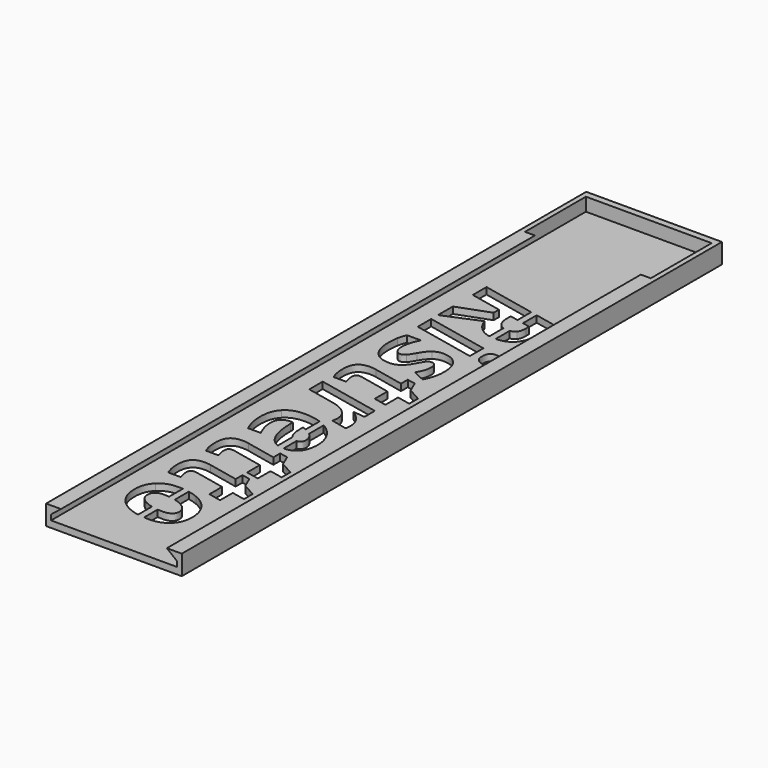
from build123d import *

# Parameters (mm, degrees)
F1_DEPTH = 202
F2_W     = 41
F2_H     = 6
F3_DEPTH = 2
F5_W     = 38
F5_H     = 23
F6_DEPTH = 4
F9_DEPTH = 2


with BuildPart() as f1:
    # F0 (on Front) → F1 (new body)
    with BuildSketch(Plane.XZ):
        Polygon((-20.5, 6), (-20.5, 0), (20.5, 0), (20.5, 6), (16, 6), (19, 3.6), (19, 2), (-19, 2), (-19, 3.6), (-16, 6), align=None)
    extrude(amount=F1_DEPTH)

    # F2 (on Front) → F3 (join)
    with BuildSketch(Plane.XZ):
        with Locations((0, 3)):
            Rectangle(F2_W, F2_H)
    extrude(amount=-F3_DEPTH)

    # F5 (on offset) → F6 (cut)
    with BuildSketch(Plane.XY.offset(6)):
        with Locations((0, -11.5)):
            Rectangle(F5_W, F5_H)
    extrude(amount=-F6_DEPTH, mode=Mode.SUBTRACT)

    # F8 (on offset) → F9 (cut, through all)
    with BuildSketch(Plane.XY.offset(2)):
        with BuildLine():
            Line((2.9829242267, -53.3153165883), (2.9829242267, -48.1384673079))
            Line((2.9829242267, -48.1384673079), (-13.2619244978, -44.7074585491))
            Line((-13.2619244978, -44.7074585491), (-13.2619244978, -49.8778144519))
            Line((-13.2619244978, -49.8778144519), (-3.7512908172, -51.8960436185))
            Line((-3.7512908172, -51.8960436185), (-3.7512908172, -53.9142727852))
            Line((-3.7512908172, -53.9142727852), (-13.2619244978, -57.4190470907))
            Line((-13.2619244978, -57.4190470907), (-13.2619244978, -63.0505575074))
            Line((-13.2619244978, -63.0505575074), (-2.7313255394, -58.6234741741))
            add(Edge.make_bspline(
                [(0.1251197731, -62.6789212227), (-1.7981658172, -61.2710436185), (-2.7313255394, -58.6234741741)],
                knots=[0, 0, 0, 1, 1, 1], degree=2))
            add(Edge.make_bspline(
                [(2.9829242267, -63.9219444067), (1.3902754579, -63.6050365971), (0.1251197731, -62.6789212227)],
                knots=[0.3421904208, 0.3421904208, 0.3421904208, 1, 1, 1], degree=2))
            Line((2.9829242267, -63.9219444067), (2.9829242267, -58.6045602377))
            add(Edge.make_bspline(
                [(1.4895945994, -57.5736694866), (2.0589763121, -58.3045892694), (2.9829242267, -58.6045602377)],
                knots=[0, 0, 0, 0.5895979622, 0.5895979622, 0.5895979622], degree=2))
            add(Edge.make_bspline(
                [(0.5238827939, -54.1150106324), (0.5238827939, -56.3339776463), (1.4895945994, -57.5736694866)],
                knots=[0, 0, 0, 1, 1, 1], degree=2))
            Line((0.5238827939, -54.1150106324), (0.5238827939, -52.7912259102))
            Line((0.5238827939, -52.7912259102), (2.9829242267, -53.3153165883))
        make_face()
        with BuildLine():
            Line((11.5264869606, -49.9429186185), (4.9829242267, -48.5608792142))
            Line((4.9829242267, -48.5608792142), (4.9829242267, -53.7415726661))
            Line((4.9829242267, -53.7415726661), (7.2187612661, -54.2180922296))
            Line((7.2187612661, -54.2180922296), (7.2187612661, -55.471347438))
            add(Edge.make_bspline(
                [(6.5243168217, -58.0076972644), (7.2187612661, -57.2020332019), (7.2187612661, -55.471347438)],
                knots=[0, 0, 0, 1, 1, 1], degree=2))
            add(Edge.make_bspline(
                [(4.9829242267, -58.7792802492), (5.9727016324, -58.6476570738), (6.5243168217, -58.0076972644)],
                knots=[0.2056741275, 0.2056741275, 0.2056741275, 1, 1, 1], degree=2))
            Line((4.9829242267, -58.7792802492), (4.9829242267, -64.0838106189))
            add(Edge.make_bspline(
                [(9.7958011967, -62.0685696602), (8.1317099375, -64.0091400314), (4.9829242267, -64.0838106189)],
                knots=[0, 0, 0, 0.9615213194, 0.9615213194, 0.9615213194], degree=2))
            add(Edge.make_bspline(
                [(11.5264869606, -56.0301582019), (11.5264869606, -60.0503404935), (9.7958011967, -62.0685696602)],
                knots=[0, 0, 0, 1, 1, 1], degree=2))
            Line((11.5264869606, -56.0301582019), (11.5264869606, -49.9429186185))
        make_face()
        Polygon((-13.2619244978, -65.578769313), (-13.2619244978, -70.6785957019), (5.6942386967, -74.6987779935), (5.6942386967, -69.5935262574), align=None)
        with BuildLine():
            add(Edge.make_bspline(
                [(10.1375980717, -70.4073283407), (11.6078671689, -70.4073283407), (12.3647031064, -71.2129924032)],
                knots=[0, 0, 0, 1, 1, 1], degree=2))
            add(Edge.make_bspline(
                [(8.0488393911, -72.9680922296), (8.0488393911, -70.4073283407), (10.1375980717, -70.4073283407)],
                knots=[0, 0, 0, 1, 1, 1], degree=2))
            add(Edge.make_bspline(
                [(8.8897682106, -75.2765774727), (8.0488393911, -74.5305922296), (8.0488393911, -72.9680922296)],
                knots=[0, 0, 0, 1, 1, 1], degree=2))
            add(Edge.make_bspline(
                [(11.0870338356, -76.0225627157), (9.73069703, -76.0225627157), (8.8897682106, -75.2765774727)],
                knots=[0, 0, 0, 1, 1, 1], degree=2))
            add(Edge.make_bspline(
                [(12.5952803633, -75.3769463963), (12.0690216828, -76.0225627157), (11.0870338356, -76.0225627157)],
                knots=[0, 0, 0, 1, 1, 1], degree=2))
            add(Edge.make_bspline(
                [(13.1215390439, -73.4943509102), (13.1215390439, -74.7313300769), (12.5952803633, -75.3769463963)],
                knots=[0, 0, 0, 1, 1, 1], degree=2))
            add(Edge.make_bspline(
                [(12.3647031064, -71.2129924032), (13.1215390439, -72.0186564657), (13.1215390439, -73.4943509102)],
                knots=[0, 0, 0, 1, 1, 1], degree=2))
        make_face()
        with BuildLine():
            add(Edge.make_bspline(
                [(-7.0064991506, -89.3146634102), (-10.19117797, -89.3146634102), (-11.8974496714, -87.2042033407)],
                knots=[0, 0, 0, 1, 1, 1], degree=2))
            add(Edge.make_bspline(
                [(-4.1229271019, -88.381503688), (-5.3788949839, -89.3146634102), (-7.0064991506, -89.3146634102)],
                knots=[0, 0, 0, 1, 1, 1], degree=2))
            add(Edge.make_bspline(
                [(-1.7981658172, -85.3650106324), (-2.86695922, -87.4483439657), (-4.1229271019, -88.381503688)],
                knots=[0, 0, 0, 1, 1, 1], degree=2))
            add(Edge.make_bspline(
                [(-0.5367725881, -83.3305054241), (-1.0386172061, -83.8730401463), (-1.7981658172, -85.3650106324)],
                knots=[0, 0, 0, 1, 1, 1], degree=2))
            add(Edge.make_bspline(
                [(0.6215390439, -82.7879707019), (-0.03492797, -82.7879707019), (-0.5367725881, -83.3305054241)],
                knots=[0, 0, 0, 1, 1, 1], degree=2))
            add(Edge.make_bspline(
                [(1.7852760231, -83.3793335491), (1.3539609189, -82.7879707019), (0.6215390439, -82.7879707019)],
                knots=[0, 0, 0, 1, 1, 1], degree=2))
            add(Edge.make_bspline(
                [(2.2165911272, -84.9364082019), (2.2165911272, -83.9706963963), (1.7852760231, -83.3793335491)],
                knots=[0, 0, 0, 1, 1, 1], degree=2))
            add(Edge.make_bspline(
                [(0.795150155, -89.3146634102), (2.2165911272, -86.9383613269), (2.2165911272, -84.9364082019)],
                knots=[0, 0, 0, 1, 1, 1], degree=2))
            Line((0.795150155, -89.3146634102), (4.4409834883, -90.9910957019))
            add(Edge.make_bspline(
                [(6.0468862661, -84.8387519519), (6.0468862661, -88.2458700074), (4.4409834883, -90.9910957019)],
                knots=[0, 0, 0, 1, 1, 1], degree=2))
            add(Edge.make_bspline(
                [(4.4626848772, -79.4866469171), (6.0468862661, -81.3611043824), (6.0468862661, -84.8387519519)],
                knots=[0, 0, 0, 1, 1, 1], degree=2))
            add(Edge.make_bspline(
                [(-0.0023758867, -77.6121894519), (2.8784834883, -77.6121894519), (4.4626848772, -79.4866469171)],
                knots=[0, 0, 0, 1, 1, 1], degree=2))
            add(Edge.make_bspline(
                [(-2.7096241506, -78.4259915352), (-1.5648758867, -77.6121894519), (-0.0023758867, -77.6121894519)],
                knots=[0, 0, 0, 1, 1, 1], degree=2))
            add(Edge.make_bspline(
                [(-5.0045460256, -81.2960002157), (-3.8543724144, -79.2397936185), (-2.7096241506, -78.4259915352)],
                knots=[0, 0, 0, 1, 1, 1], degree=2))
            add(Edge.make_bspline(
                [(-6.4639644283, -83.5149672296), (-5.8888776228, -82.8856269519), (-5.0045460256, -81.2960002157)],
                knots=[0, 0, 0, 1, 1, 1], degree=2))
            add(Edge.make_bspline(
                [(-7.7660477617, -84.1443075074), (-7.0390512339, -84.1443075074), (-6.4639644283, -83.5149672296)],
                knots=[0, 0, 0, 1, 1, 1], degree=2))
            add(Edge.make_bspline(
                [(-9.2688689422, -83.2789646255), (-8.7154835256, -84.1443075074), (-7.7660477617, -84.1443075074)],
                knots=[0, 0, 0, 1, 1, 1], degree=2))
            add(Edge.make_bspline(
                [(-9.8222543589, -81.057284938), (-9.8222543589, -82.4136217435), (-9.2688689422, -83.2789646255)],
                knots=[0, 0, 0, 1, 1, 1], degree=2))
            add(Edge.make_bspline(
                [(-8.2923064422, -75.6482137574), (-9.8222543589, -78.3120592435), (-9.8222543589, -81.057284938)],
                knots=[0, 0, 0, 1, 1, 1], degree=2))
            Line((-8.2923064422, -75.6482137574), (-12.4969505394, -75.6482137574))
            add(Edge.make_bspline(
                [(-13.3487300533, -78.1655748685), (-13.0937387339, -76.8200887574), (-12.4969505394, -75.6482137574)],
                knots=[0, 0, 0, 1, 1, 1], degree=2))
            add(Edge.make_bspline(
                [(-13.6037213728, -81.3285522991), (-13.6037213728, -79.5110609796), (-13.3487300533, -78.1655748685)],
                knots=[0, 0, 0, 1, 1, 1], degree=2))
            add(Edge.make_bspline(
                [(-11.8974496714, -87.2042033407), (-13.6037213728, -85.0937432713), (-13.6037213728, -81.3285522991)],
                knots=[0, 0, 0, 1, 1, 1], degree=2))
        make_face()
        with BuildLine():
            add(Edge.make_bspline(
                [(-9.4804574839, -100.3986477852), (-9.4804574839, -101.4999932713), (-8.8890946367, -103.1492988269)],
                knots=[0, 0, 0, 1, 1, 1], degree=2))
            add(Edge.make_bspline(
                [(-8.2272022756, -98.9066772991), (-9.4804574839, -98.9066772991), (-9.4804574839, -100.3986477852)],
                knots=[0, 0, 0, 1, 1, 1], degree=2))
            add(Edge.make_bspline(
                [(-7.3265946367, -99.0097588963), (-7.8365772756, -98.9066772991), (-8.2272022756, -98.9066772991)],
                knots=[0, 0, 0, 1, 1, 1], degree=2))
            Line((-7.3265946367, -99.0097588963), (1.8096900856, -100.9574585491))
            Line((1.8096900856, -100.9574585491), (1.8096900856, -105.7426147991))
            Line((1.8096900856, -105.7426147991), (5.6942386967, -106.5889689657))
            Line((5.6942386967, -106.5889689657), (5.6942386967, -101.7929620213))
            Line((5.6942386967, -101.7929620213), (9.73069703, -102.6230401463))
            Line((9.73069703, -102.6230401463), (9.73069703, -99.3298543824))
            Line((9.73069703, -99.3298543824), (5.72679078, -97.0946113269))
            Line((5.72679078, -97.0946113269), (4.3053498078, -93.7688734796))
            Line((4.3053498078, -93.7688734796), (1.8096900856, -93.2805922296))
            Line((1.8096900856, -93.2805922296), (1.8096900856, -95.8576321602))
            Line((1.8096900856, -95.8576321602), (-7.3265946367, -93.9045071602))
            add(Edge.make_bspline(
                [(-9.2254661644, -93.703769313), (-8.3791119978, -93.703769313), (-7.3265946367, -93.9045071602)],
                knots=[0, 0, 0, 1, 1, 1], degree=2))
            add(Edge.make_bspline(
                [(-12.53492797, -94.9000583755), (-11.4661345672, -93.703769313), (-9.2254661644, -93.703769313)],
                knots=[0, 0, 0, 1, 1, 1], degree=2))
            add(Edge.make_bspline(
                [(-13.6037213728, -98.635409938), (-13.6037213728, -96.096347438), (-12.53492797, -94.9000583755)],
                knots=[0, 0, 0, 1, 1, 1], degree=2))
            add(Edge.make_bspline(
                [(-12.7031137339, -103.1492988269), (-13.6037213728, -101.2667033407), (-13.6037213728, -98.635409938)],
                knots=[0, 0, 0, 1, 1, 1], degree=2))
            Line((-12.7031137339, -103.1492988269), (-8.8890946367, -103.1492988269))
        make_face()
        with BuildLine():
            add(Edge.make_bspline(
                [(6.0468862661, -120.2011651463), (6.0468862661, -121.2048543824), (5.8624244606, -121.828769313)],
                knots=[0, 0, 0, 1, 1, 1], degree=2))
            add(Edge.make_bspline(
                [(2.1840390439, -114.2170071602), (6.0468862661, -116.7126668824), (6.0468862661, -120.2011651463)],
                knots=[0, 0, 0, 1, 1, 1], degree=2))
            Line((2.1840390439, -114.2170071602), (2.1840390439, -114.113925563))
            Line((2.1840390439, -114.113925563), (5.6942386967, -114.4719984796))
            Line((5.6942386967, -114.4719984796), (5.6942386967, -110.5711738269))
            Line((5.6942386967, -110.5711738269), (-13.2619244978, -106.5564168824))
            Line((-13.2619244978, -106.5564168824), (-13.2619244978, -111.6562432713))
            Line((-13.2619244978, -111.6562432713), (-4.7821067894, -113.4574585491))
            add(Edge.make_bspline(
                [(-0.3333220672, -115.5652059449), (-1.8849713728, -114.0813734796), (-4.7821067894, -113.4574585491)],
                knots=[0, 0, 0, 1, 1, 1], degree=2))
            add(Edge.make_bspline(
                [(1.2183272383, -119.0184394519), (1.2183272383, -117.0490384102), (-0.3333220672, -115.5652059449)],
                knots=[0, 0, 0, 1, 1, 1], degree=2))
            add(Edge.make_bspline(
                [(0.9470598772, -120.7111477852), (1.2183272383, -119.9461738269), (1.2183272383, -119.0184394519)],
                knots=[0, 0, 0, 1, 1, 1], degree=2))
            Line((0.9470598772, -120.7111477852), (5.8624244606, -121.828769313))
        make_face()
        with BuildLine():
            Line((-1.1244220659, -128.1487690576), (-1.1244220659, -122.9391321864))
            add(Edge.make_bspline(
                [(-6.2740772756, -122.0674845907), (-3.5083656042, -122.0674845907), (-1.1244220659, -122.9391321864)],
                knots=[0, 0, 0, 0.7891268967, 0.7891268967, 0.7891268967], degree=2))
            add(Edge.make_bspline(
                [(-11.6858611297, -124.0341729588), (-9.7680008867, -122.0674845907), (-6.2740772756, -122.0674845907)],
                knots=[0, 0, 0, 1, 1, 1], degree=2))
            add(Edge.make_bspline(
                [(-13.6037213728, -129.5653144519), (-13.6037213728, -126.0008613269), (-11.6858611297, -124.0341729588)],
                knots=[0, 0, 0, 1, 1, 1], degree=2))
            add(Edge.make_bspline(
                [(-12.14430297, -136.1733873685), (-13.6037213728, -133.2599759102), (-13.6037213728, -129.5653144519)],
                knots=[0, 0, 0, 1, 1, 1], degree=2))
            Line((-12.14430297, -136.1733873685), (-8.2923064422, -136.1733873685))
            add(Edge.make_bspline(
                [(-9.4289166853, -133.2599759102), (-9.1061085256, -134.4644029935), (-8.2923064422, -136.1733873685)],
                knots=[0, 0, 0, 1, 1, 1], degree=2))
            add(Edge.make_bspline(
                [(-9.751724845, -130.5798543824), (-9.751724845, -132.0555488269), (-9.4289166853, -133.2599759102)],
                knots=[0, 0, 0, 1, 1, 1], degree=2))
            add(Edge.make_bspline(
                [(-8.8619679006, -128.078769313), (-9.751724845, -128.9522502157), (-9.751724845, -130.5798543824)],
                knots=[0, 0, 0, 1, 1, 1], degree=2))
            add(Edge.make_bspline(
                [(-6.431412345, -127.2052884102), (-7.9722109561, -127.2052884102), (-8.8619679006, -128.078769313)],
                knots=[0, 0, 0, 1, 1, 1], degree=2))
            Line((-6.431412345, -127.2052884102), (-6.08961547, -127.2052884102))
            Line((-6.08961547, -127.2052884102), (-5.7315425533, -127.2378404935))
            Line((-5.7315425533, -127.2378404935), (-5.7315425533, -128.1058960491))
            add(Edge.make_bspline(
                [(-4.0117074839, -136.1923760838), (-5.7315425533, -133.3630575074), (-5.7315425533, -128.1058960491)],
                knots=[0, 0, 0, 1, 1, 1], degree=2))
            add(Edge.make_bspline(
                [(-1.1244220659, -138.6896083761), (-2.8810840903, -138.0523763985), (-4.0117074839, -136.1923760838)],
                knots=[0.3425977795, 0.3425977795, 0.3425977795, 1, 1, 1], degree=2))
            Line((-1.1244220659, -138.6896083761), (-1.1244220659, -133.1768450344))
            add(Edge.make_bspline(
                [(-1.4699323103, -132.6577623685), (-1.3084350515, -132.9455792654), (-1.1244220659, -133.1768450344)],
                knots=[0, 0, 0, 0.1964830016, 0.1964830016, 0.1964830016], degree=2))
            add(Edge.make_bspline(
                [(-2.2918724144, -128.5616252157), (-2.2918724144, -131.1929186185), (-1.4699323103, -132.6577623685)],
                knots=[0, 0, 0, 1, 1, 1], degree=2))
            Line((-2.2918724144, -128.5616252157), (-2.2918724144, -127.8020766046))
            add(Edge.make_bspline(
                [(-1.1244220659, -128.1487690576), (-1.6788570057, -127.9301438906), (-2.2918724144, -127.8020766046)],
                knots=[0.685261838, 0.685261838, 0.685261838, 1, 1, 1], degree=2))
        make_face()
        with BuildLine():
            add(Edge.make_bspline(
                [(0.8755779341, -123.8617681464), (3.2181215381, -125.1884804824), (4.5305017175, -127.2568292088)],
                knots=[0.1345334001, 0.1345334001, 0.1345334001, 1, 1, 1], degree=2))
            Line((0.8755779341, -123.8617681464), (0.8755779341, -129.4007119953))
            add(Edge.make_bspline(
                [(1.0121640439, -129.5300496949), (0.9446045921, -129.4642467889), (0.8755779341, -129.4007119953)],
                knots=[0, 0, 0, 0.0498102326, 0.0498102326, 0.0498102326], degree=2))
            add(Edge.make_bspline(
                [(2.3685008494, -132.3430922296), (2.3685008494, -130.8511217435), (1.0121640439, -129.5300496949)],
                knots=[0, 0, 0, 1, 1, 1], degree=2))
            add(Edge.make_bspline(
                [(0.8755779341, -134.1201113501), (2.3685008494, -134.055976733), (2.3685008494, -132.3430922296)],
                knots=[0.0374424644, 0.0374424644, 0.0374424644, 1, 1, 1], degree=2))
            Line((0.8755779341, -134.1201113501), (0.8755779341, -139.0216945963))
            add(Edge.make_bspline(
                [(0.8765303633, -139.0216946602), (0.8760541323, -139.0216946602), (0.8755779341, -139.0216945963)],
                knots=[0, 0, 0, 0.0001503063, 0.0001503063, 0.0001503063], degree=2))
            add(Edge.make_bspline(
                [(4.6661353981, -137.3452623685), (3.28538453, -139.0216946602), (0.8765303633, -139.0216946602)],
                knots=[0, 0, 0, 1, 1, 1], degree=2))
            add(Edge.make_bspline(
                [(6.0468862661, -132.6631877157), (6.0468862661, -135.6688300769), (4.6661353981, -137.3452623685)],
                knots=[0, 0, 0, 1, 1, 1], degree=2))
            add(Edge.make_bspline(
                [(4.5305017175, -127.2568292088), (6.0468862661, -129.6466946602), (6.0468862661, -132.6631877157)],
                knots=[0, 0, 0, 1, 1, 1], degree=2))
        make_face()
        with BuildLine():
            add(Edge.make_bspline(
                [(-9.4804574839, -148.6028578546), (-9.4804574839, -149.7042033407), (-8.8890946367, -151.3535088963)],
                knots=[0, 0, 0, 1, 1, 1], degree=2))
            add(Edge.make_bspline(
                [(-8.2272022756, -147.1108873685), (-9.4804574839, -147.1108873685), (-9.4804574839, -148.6028578546)],
                knots=[0, 0, 0, 1, 1, 1], degree=2))
            add(Edge.make_bspline(
                [(-7.3265946367, -147.2139689657), (-7.8365772756, -147.1108873685), (-8.2272022756, -147.1108873685)],
                knots=[0, 0, 0, 1, 1, 1], degree=2))
            Line((-7.3265946367, -147.2139689657), (1.8096900856, -149.1616686185))
            Line((1.8096900856, -149.1616686185), (1.8096900856, -153.9468248685))
            Line((1.8096900856, -153.9468248685), (5.6942386967, -154.7931790352))
            Line((5.6942386967, -154.7931790352), (5.6942386967, -149.9971720907))
            Line((5.6942386967, -149.9971720907), (9.73069703, -150.8272502157))
            Line((9.73069703, -150.8272502157), (9.73069703, -147.5340644519))
            Line((9.73069703, -147.5340644519), (5.72679078, -145.2988213963))
            Line((5.72679078, -145.2988213963), (4.3053498078, -141.9730835491))
            Line((4.3053498078, -141.9730835491), (1.8096900856, -141.4848022991))
            Line((1.8096900856, -141.4848022991), (1.8096900856, -144.0618422296))
            Line((1.8096900856, -144.0618422296), (-7.3265946367, -142.1087172296))
            add(Edge.make_bspline(
                [(-9.2254661644, -141.9079793824), (-8.3791119978, -141.9079793824), (-7.3265946367, -142.1087172296)],
                knots=[0, 0, 0, 1, 1, 1], degree=2))
            add(Edge.make_bspline(
                [(-12.53492797, -143.1042684449), (-11.4661345672, -141.9079793824), (-9.2254661644, -141.9079793824)],
                knots=[0, 0, 0, 1, 1, 1], degree=2))
            add(Edge.make_bspline(
                [(-13.6037213728, -146.8396200074), (-13.6037213728, -144.3005575074), (-12.53492797, -143.1042684449)],
                knots=[0, 0, 0, 1, 1, 1], degree=2))
            add(Edge.make_bspline(
                [(-12.7031137339, -151.3535088963), (-13.6037213728, -149.4709134102), (-13.6037213728, -146.8396200074)],
                knots=[0, 0, 0, 1, 1, 1], degree=2))
            Line((-12.7031137339, -151.3535088963), (-8.8890946367, -151.3535088963))
        make_face()
        with BuildLine():
            add(Edge.make_bspline(
                [(-9.4804574839, -162.844394313), (-9.4804574839, -163.9457397991), (-8.8890946367, -165.5950453546)],
                knots=[0, 0, 0, 1, 1, 1], degree=2))
            add(Edge.make_bspline(
                [(-8.2272022756, -161.3524238269), (-9.4804574839, -161.3524238269), (-9.4804574839, -162.844394313)],
                knots=[0, 0, 0, 1, 1, 1], degree=2))
            add(Edge.make_bspline(
                [(-7.3265946367, -161.4555054241), (-7.8365772756, -161.3524238269), (-8.2272022756, -161.3524238269)],
                knots=[0, 0, 0, 1, 1, 1], degree=2))
            Line((-7.3265946367, -161.4555054241), (1.8096900856, -163.4032050769))
            Line((1.8096900856, -163.4032050769), (1.8096900856, -168.1883613269))
            Line((1.8096900856, -168.1883613269), (5.6942386967, -169.0347154935))
            Line((5.6942386967, -169.0347154935), (5.6942386967, -164.2387085491))
            Line((5.6942386967, -164.2387085491), (9.73069703, -165.0687866741))
            Line((9.73069703, -165.0687866741), (9.73069703, -161.7756009102))
            Line((9.73069703, -161.7756009102), (5.72679078, -159.5403578546))
            Line((5.72679078, -159.5403578546), (4.3053498078, -156.2146200074))
            Line((4.3053498078, -156.2146200074), (1.8096900856, -155.7263387574))
            Line((1.8096900856, -155.7263387574), (1.8096900856, -158.303378688))
            Line((1.8096900856, -158.303378688), (-7.3265946367, -156.350253688))
            add(Edge.make_bspline(
                [(-9.2254661644, -156.1495158407), (-8.3791119978, -156.1495158407), (-7.3265946367, -156.350253688)],
                knots=[0, 0, 0, 1, 1, 1], degree=2))
            add(Edge.make_bspline(
                [(-12.53492797, -157.3458049032), (-11.4661345672, -156.1495158407), (-9.2254661644, -156.1495158407)],
                knots=[0, 0, 0, 1, 1, 1], degree=2))
            add(Edge.make_bspline(
                [(-13.6037213728, -161.0811564657), (-13.6037213728, -158.5420939657), (-12.53492797, -157.3458049032)],
                knots=[0, 0, 0, 1, 1, 1], degree=2))
            add(Edge.make_bspline(
                [(-12.7031137339, -165.5950453546), (-13.6037213728, -163.7124498685), (-13.6037213728, -161.0811564657)],
                knots=[0, 0, 0, 1, 1, 1], degree=2))
            Line((-12.7031137339, -165.5950453546), (-8.8890946367, -165.5950453546))
        make_face()
        with BuildLine():
            Line((-4.8210341483, -175.1155175482), (-4.8210341483, -169.9514313315))
            add(Edge.make_bspline(
                [(-6.3120547061, -169.8973457019), (-5.5489393733, -169.8973457019), (-4.8210341483, -169.9514313315)],
                knots=[0, 0, 0, 0.2111973245, 0.2111973245, 0.2111973245], degree=2))
            add(Edge.make_bspline(
                [(-11.6099062686, -171.8721720907), (-9.6160911644, -169.8973457019), (-6.3120547061, -169.8973457019)],
                knots=[0, 0, 0, 1, 1, 1], degree=2))
            add(Edge.make_bspline(
                [(-13.6037213728, -177.1564602852), (-13.6037213728, -173.8469984796), (-11.6099062686, -171.8721720907)],
                knots=[0, 0, 0, 1, 1, 1], degree=2))
            add(Edge.make_bspline(
                [(-12.0846241506, -182.5139906671), (-13.6037213728, -180.2597588963), (-13.6037213728, -177.1564602852)],
                knots=[0, 0, 0, 1, 1, 1], degree=2))
            add(Edge.make_bspline(
                [(-7.8013125186, -185.9645115005), (-10.5655269283, -184.768222438), (-12.0846241506, -182.5139906671)],
                knots=[0, 0, 0, 1, 1, 1], degree=2))
            add(Edge.make_bspline(
                [(-4.8210341483, -186.8642305415), (-6.4134113397, -186.5651635318), (-7.8013125186, -185.9645115005)],
                knots=[0.4979039346, 0.4979039346, 0.4979039346, 1, 1, 1], degree=2))
            Line((-4.8210341483, -186.8642305415), (-4.8210341483, -181.6409197722))
            add(Edge.make_bspline(
                [(-5.50367797, -181.4533352852), (-5.1677790311, -181.5564621524), (-4.8210341483, -181.6409197722)],
                knots=[0, 0, 0, 0.1810318492, 0.1810318492, 0.1810318492], degree=2))
            add(Edge.make_bspline(
                [(-8.4035260603, -179.8664212227), (-7.35914672, -180.8836738269), (-5.50367797, -181.4533352852)],
                knots=[0, 0, 0, 1, 1, 1], degree=2))
            add(Edge.make_bspline(
                [(-9.4479054006, -177.5796373685), (-9.4479054006, -178.8491686185), (-8.4035260603, -179.8664212227)],
                knots=[0, 0, 0, 1, 1, 1], degree=2))
            add(Edge.make_bspline(
                [(-6.3120547061, -175.0351495213), (-9.4479054006, -175.0351495213), (-9.4479054006, -177.5796373685)],
                knots=[0, 0, 0, 1, 1, 1], degree=2))
            add(Edge.make_bspline(
                [(-4.8210341483, -175.1155175482), (-5.5588496161, -175.0351495213), (-6.3120547061, -175.0351495213)],
                knots=[0.6449341121, 0.6449341121, 0.6449341121, 1, 1, 1], degree=2))
        make_face()
        with BuildLine():
            add(Edge.make_bspline(
                [(-2.8210341483, -170.2148166683), (-1.2538403347, -170.5177924889), (0.1251197731, -171.109910806)],
                knots=[0.511681216, 0.511681216, 0.511681216, 1, 1, 1], degree=2))
            Line((-2.8210341483, -170.2148166683), (-2.8210341483, -175.4885029809))
            add(Edge.make_bspline(
                [(-2.1915034908, -175.6726278199), (-2.5047702441, -175.5727395064), (-2.8210341483, -175.4885029809)],
                knots=[0, 0, 0, 0.1566928846, 0.1566928846, 0.1566928846], degree=2))
            add(Edge.make_bspline(
                [(0.84397828, -177.3165080282), (-0.1922630394, -176.3101061185), (-2.1915034908, -175.6726278199)],
                knots=[0, 0, 0, 1, 1, 1], degree=2))
            add(Edge.make_bspline(
                [(1.8802195994, -179.5978665352), (1.8802195994, -178.322909938), (0.84397828, -177.3165080282)],
                knots=[0, 0, 0, 1, 1, 1], degree=2))
            add(Edge.make_bspline(
                [(-1.4617942894, -182.0229967435), (1.8802195994, -182.0229967435), (1.8802195994, -179.5978665352)],
                knots=[0, 0, 0, 1, 1, 1], degree=2))
            add(Edge.make_bspline(
                [(-2.8210341483, -181.9652032949), (-2.1582018397, -182.0229967435), (-1.4617942894, -182.0229967435)],
                knots=[0.6814842688, 0.6814842688, 0.6814842688, 1, 1, 1], degree=2))
            Line((-2.8210341483, -181.9652032949), (-2.8210341483, -187.1156038345))
            add(Edge.make_bspline(
                [(-1.4617942894, -187.160800563), (-2.1567360123, -187.160800563), (-2.8210341483, -187.1156038345)],
                knots=[0, 0, 0, 0.1943727744, 0.1943727744, 0.1943727744], degree=2))
            add(Edge.make_bspline(
                [(4.0476458147, -185.2266642782), (2.0484053633, -187.160800563), (-1.4617942894, -187.160800563)],
                knots=[0, 0, 0, 1, 1, 1], degree=2))
            add(Edge.make_bspline(
                [(6.0468862661, -179.9722154935), (6.0468862661, -183.2925279935), (4.0476458147, -185.2266642782)],
                knots=[0, 0, 0, 1, 1, 1], degree=2))
            add(Edge.make_bspline(
                [(4.4979496342, -174.611972438), (6.0468862661, -176.9014689657), (6.0468862661, -179.9722154935)],
                knots=[0, 0, 0, 1, 1, 1], degree=2))
            add(Edge.make_bspline(
                [(0.1251197731, -171.109910806), (2.9490130022, -172.3224759102), (4.4979496342, -174.611972438)],
                knots=[0, 0, 0, 1, 1, 1], degree=2))
        make_face()
    extrude(amount=-F9_DEPTH, mode=Mode.SUBTRACT)


solid = f1.part
